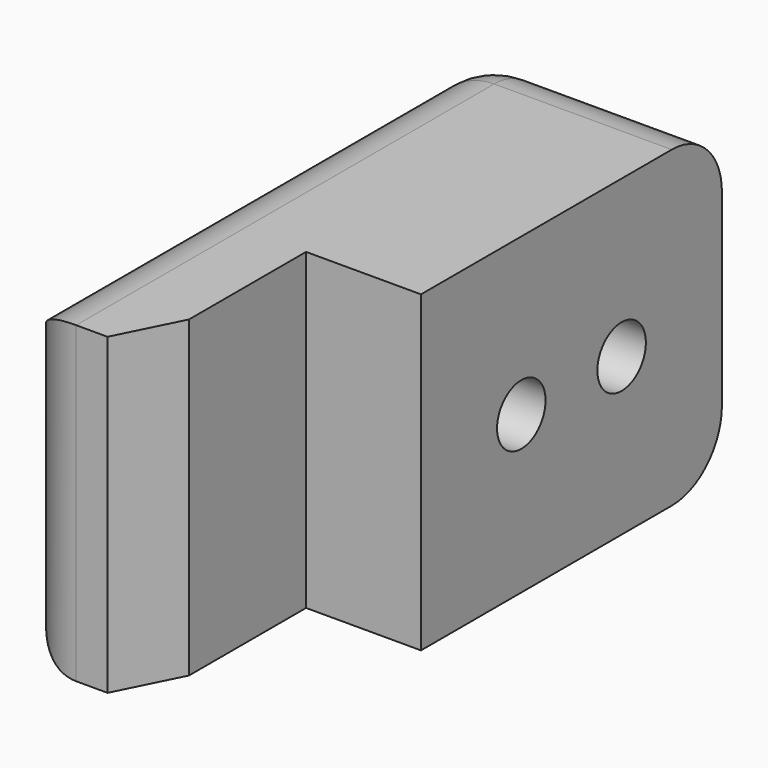
from build123d import *

# Parameters (mm, degrees)
F1_DEPTH = 15
F3_D     = 2.9
F3_DEPTH = 10
F3_TIP   = 0.8712478976
F4_SIZE2 = 3
F4_SIZE  = 1.5
F5_R     = 3


with BuildPart() as f1:
    # F0 (on Top) → F1 (new body)
    with BuildSketch(Plane.XY):
        Polygon((0, 0), (5.5, 0), (5.5, 18), (-6, 18), (-6, -10), (0, -10), align=None)
    extrude(amount=F1_DEPTH)

    # F3
    with Locations(Plane.YZ.offset(5.5)):
        with Locations((6, 7.5), (12, 7.5)):
            Hole(F3_D / 2, depth=F3_DEPTH)
            with Locations((0, 0, -(F3_DEPTH + F3_TIP / 2))):  # 118° drill point
                Cone(0, F3_D / 2, F3_TIP, mode=Mode.SUBTRACT)

    # F4
    f4_edges = [f1.edges().sort_by_distance(p)[0] for p in [
        (0, -10, 7.5),
    ]]
    f4_side = f1.faces().sort_by_distance((-3, -10, 7.5))[0]
    chamfer(f4_edges, length=F4_SIZE, length2=F4_SIZE2, reference=f4_side)

    # F5
    f5_edges = [f1.edges().sort_by_distance(p)[0] for p in [
        (-0.25, 18, 15),
        (-0.25, 18, 0),
        (-6, 18, 7.5),
        (-6, 4, 0),
        (-6, 4, 15),
        (-6, -10, 7.5),
    ]]
    fillet(f5_edges, radius=F5_R)


solid = f1.part
